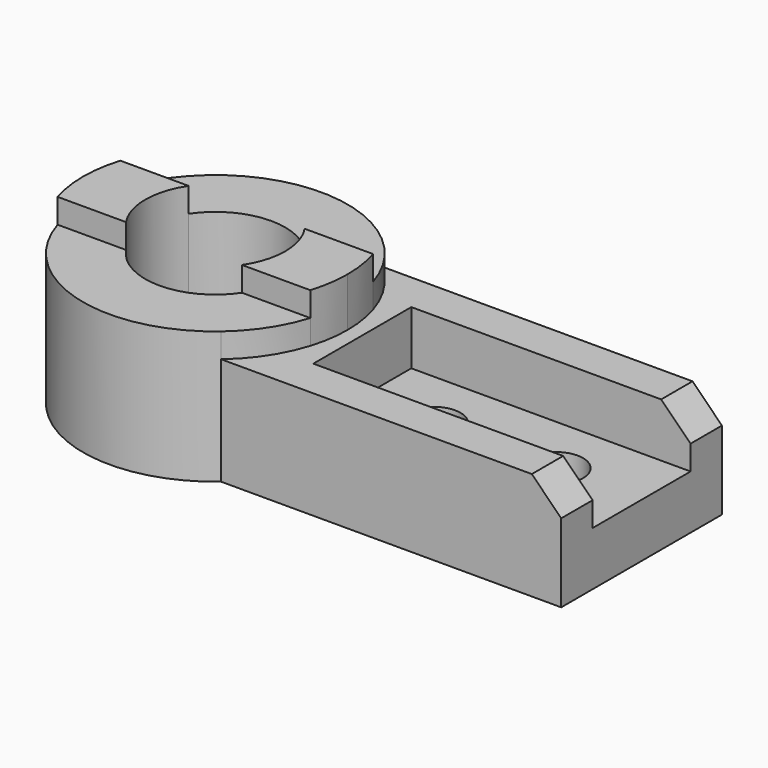
from build123d import *

# Parameters (mm, degrees)
F1_DEPTH = 54
F2_DEPTH = 64
F3_DEPTH = 44
F0_W     = 114
F0_H     = 50
F0_R     = 11.1
F4_DEPTH = 22
F5_SIZE2 = 12
F5_SIZE  = 12


with BuildPart() as f1:
    # F0 (on Top) → F1 (new body)
    with BuildSketch(Plane.XY):
        with BuildLine():
            Line((23.675528, 16), (51.575188, 16))
            ThreePointArc((51.575188, 16), (45.124741, 29.660711), (35.142567, 41))
            ThreePointArc((35.142567, 41), (-14.958535, 51.886821), (-51.575188, 16))
            Line((-51.575188, 16), (-23.675528, 16))
            ThreePointArc((-23.675528, 16), (0, 28.575), (23.675528, 16))
        make_face()
        with BuildLine():
            ThreePointArc((35.142567, -41), (45.124741, -29.660711), (51.575188, -16))
            Line((51.575188, -16), (23.675528, -16))
            ThreePointArc((23.675528, -16), (0, -28.575), (-23.675528, -16))
            Line((-23.675528, -16), (-51.575188, -16))
            ThreePointArc((-51.575188, -16), (-14.958535, -51.886821), (35.142567, -41))
        make_face()
    extrude(amount=F1_DEPTH)



with BuildPart() as f2:
    # F0 (on Top) → F2 (new body)
    with BuildSketch(Plane.XY):
        with BuildLine():
            Line((-23.675528, 16), (-51.575188, 16))
            ThreePointArc((-51.575188, 16), (-54, 0), (-51.575188, -16))
            Line((-51.575188, -16), (-23.675528, -16))
            ThreePointArc((-23.675528, -16), (-28.575, 0), (-23.675528, 16))
        make_face()
        with BuildLine():
            ThreePointArc((51.575188, -16), (53.390356, -8.091349), (54, 0))
            ThreePointArc((54, 0), (53.390356, 8.091349), (51.575188, 16))
            Line((51.575188, 16), (23.675528, 16))
            ThreePointArc((23.675528, 16), (27.322691, 8.366672), (28.575, 0))
            ThreePointArc((28.575, 0), (27.322691, -8.366672), (23.675528, -16))
            Line((23.675528, -16), (51.575188, -16))
        make_face()
    extrude(amount=F2_DEPTH)


with BuildPart() as f1_1:
    add(f1.part)

    add(f2.part)  # F3 merges F2
    # F0 (on Top) → F3 (join)
    with BuildSketch(Plane.XY):
        with BuildLine():
            ThreePointArc((51.575188, 16), (53.390356, 8.091349), (54, 0))
            ThreePointArc((54, 0), (53.390356, -8.091349), (51.575188, -16))
            ThreePointArc((51.575188, -16), (45.124741, -29.660711), (35.142567, -41))
            Line((35.142567, -41), (174, -41))
            Line((174, -41), (174, -25))
            Line((174, -25), (60, -25))
            Line((60, -25), (60, 25))
            Line((60, 25), (174, 25))
            Line((174, 25), (174, 41))
            Line((174, 41), (35.142567, 41))
            ThreePointArc((35.142567, 41), (45.124741, 29.660711), (51.575188, 16))
        make_face()
    extrude(amount=F3_DEPTH)

    # F0 (on Top) → F4 (join)
    with BuildSketch(Plane.XY):
        with Locations((117, 0)):
            Rectangle(F0_W, F0_H)
        with Locations((89, 0)):
            Circle(F0_R, mode=Mode.SUBTRACT)
        with Locations((139, 0)):
            Circle(F0_R, mode=Mode.SUBTRACT)
    extrude(amount=F4_DEPTH)

    # F5
    f5_edges = [f1_1.edges().sort_by_distance(p)[0] for p in [
        (174, -33, 44),
        (174, 33, 44),
    ]]
    chamfer(f5_edges, length=F5_SIZE, length2=F5_SIZE2)


solid = f1_1.part
